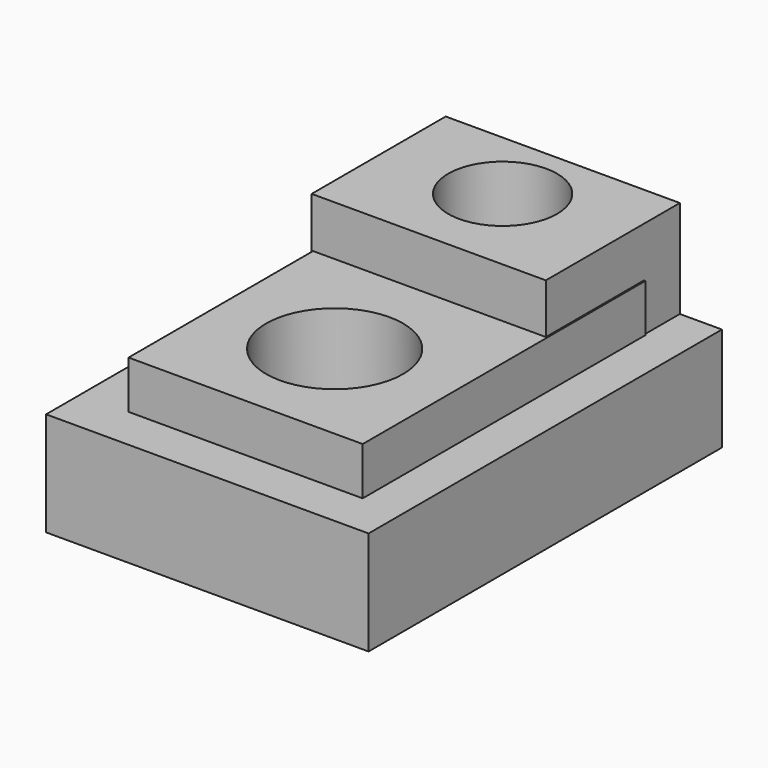
from build123d import *

# Parameters (mm, degrees)
F0_W     = 78.810706
F0_H     = 107.936401
F1_DEPTH = 25.4
F2_W     = 57.223428
F2_H     = 86.349123
F3_DEPTH = 37.084
F4_W     = 57.223426
F4_H     = 40.945355
F5_DEPTH = 49.276
F6_R     = 13.306324
F8_DEPTH = 92.456
F7_R     = 16.734073
F9_DEPTH = 76.962


with BuildPart() as f1:
    # F0 (on Top) → F1 (new body)
    with BuildSketch(Plane.XY):
        with Locations((3.083896, -13.022845)):
            Rectangle(F0_W, F0_H)
    extrude(amount=F1_DEPTH)

    # F2 (on Top) → F3 (join)
    with BuildSketch(Plane.XY):
        with Locations((3.940536, -13.194174)):
            Rectangle(F2_W, F2_H)
    extrude(amount=F3_DEPTH)

    # F4 (on Top) → F5 (join)
    with BuildSketch(Plane.XY):
        with Locations((3.597881, 20.472677)):
            Rectangle(F4_W, F4_H)
    extrude(amount=F5_DEPTH)

    # F6 (on Top) → F8 (cut)
    with BuildSketch(Plane.XY):
        with Locations((3.426551, 22.784626)):
            Circle(F6_R)
    extrude(amount=F8_DEPTH, mode=Mode.SUBTRACT)

    # F7 (on Top) → F9 (cut)
    with BuildSketch(Plane.XY):
        with Locations((3.769206, -28.956316)):
            Circle(F7_R)
    extrude(amount=F9_DEPTH, mode=Mode.SUBTRACT)


solid = f1.part
